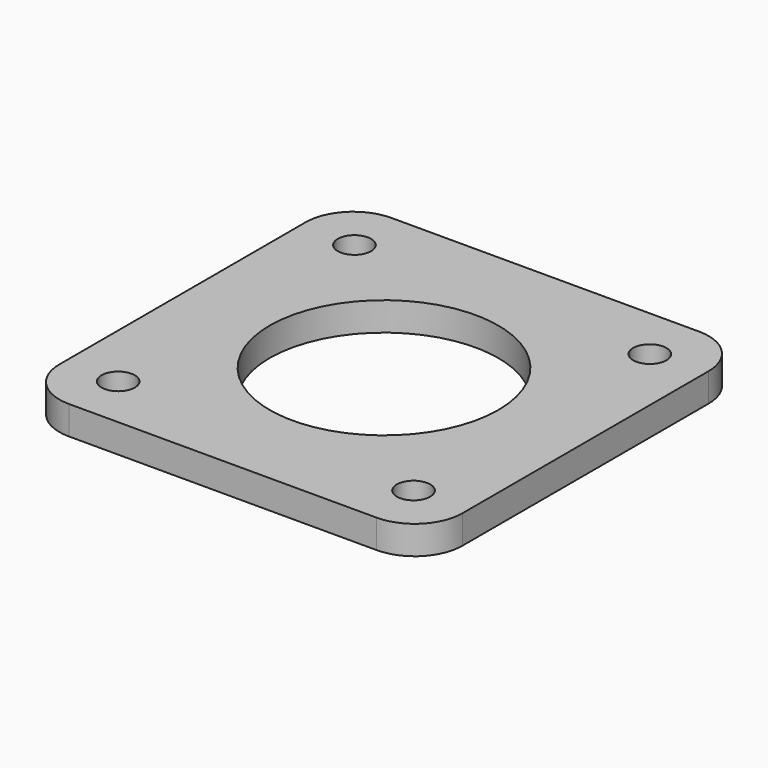
from build123d import *

# Parameters (mm, degrees)
F0_R     = 1.75
F0_R_2   = 12
F1_DEPTH = 3


with BuildPart() as f1:
    # F0 (on Top) → F1 (new body)
    with BuildSketch(Plane.XY):
        with BuildLine():
            Line((31.65, 5.65), (-0.65, 5.65))
            ThreePointArc((-0.65, 5.65), (-4.185534, 4.185534), (-5.65, 0.65))
            Line((-5.65, 0.65), (-5.65, -31.65))
            ThreePointArc((-5.65, -31.65), (-4.185534, -35.185534), (-0.65, -36.65))
            Line((-0.65, -36.65), (31.65, -36.65))
            ThreePointArc((31.65, -36.65), (35.185534, -35.185534), (36.65, -31.65))
            Line((36.65, -31.65), (36.65, 0.65))
            ThreePointArc((36.65, 0.65), (35.185534, 4.185534), (31.65, 5.65))
        make_face()
        with Locations((0, -31)):
            Circle(F0_R, mode=Mode.SUBTRACT)
        with Locations((31, -31)):
            Circle(F0_R, mode=Mode.SUBTRACT)
        Circle(F0_R, mode=Mode.SUBTRACT)
        with Locations((15.5, -15.5)):
            Circle(F0_R_2, mode=Mode.SUBTRACT)
        with Locations((31, 0)):
            Circle(F0_R, mode=Mode.SUBTRACT)
    extrude(amount=F1_DEPTH)


solid = f1.part
